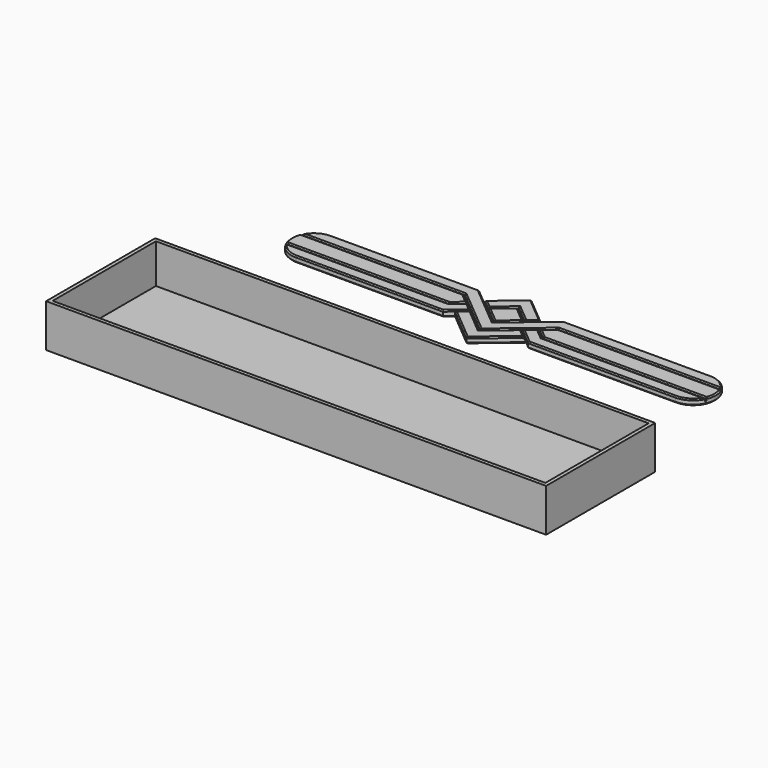
from build123d import *

# Parameters (mm, degrees)
F1_DEPTH  = 2
F3_DEPTH  = 2
F5_DEPTH  = 2
F7_DEPTH  = 2
F9_DEPTH  = 1
F12_DEPTH = 2
F13_SIZE  = 0.4
F14_W     = 165
F14_H     = 45
F15_DEPTH = 1.2
F16_W     = 165
F16_H     = 45
F16_W_2   = 162.6
F16_H_2   = 42.6
F17_DEPTH = 13


with BuildPart() as f1:
    # F0 (on Top) → F1 (new body)
    with BuildSketch(Plane.XY):
        Polygon((15.575261, 3), (12, 0), (15.575261, -3), (70, -3), (70, 0), (70, 3), align=None)
        Polygon((-15.575261, -3), (-12, 0), (-15.575261, 3), (-70, 3), (-70, 0), (-70, -3), align=None)
    extrude(amount=F1_DEPTH)


with BuildPart() as f3:
    # F2 (on Top) → F3 (new body)
    with BuildSketch(Plane.XY):
        Polygon((-15.429673, 3.4), (0, -9.547033), (15.429673, 3.4), (70, 3.4), (70, 7.4), (13.973792, 7.4), (0, -4.325404), (-13.973792, 7.4), (-70, 7.4), (-70, 3.4), align=None)
    extrude(amount=F3_DEPTH)


with BuildPart() as f5:
    # F4 (on Top) → F5 (new body)
    with BuildSketch(Plane.XY):
        Polygon((6.079716, 1.298247), (9.143894, 3.869397), (0, 11.542036), (-9.143894, 3.869397), (-6.079716, 1.298247), (0, 6.399735), align=None)
        Polygon((15.429673, -3.4), (11.688855, -0.261081), (8.624677, -2.832232), (14.068332, -7.4), (70, -7.4), (70, -3.4), align=None)
        Polygon((-70, -7.4), (-14.068332, -7.4), (-8.624677, -2.832232), (-11.688855, -0.261081), (-15.429673, -3.4), (-70, -3.4), align=None)
    extrude(amount=F5_DEPTH)


with BuildPart() as f7:
    # F6 (on Top) → F7 (new body)
    with BuildSketch(Plane.XY):
        Polygon((-11.42498, -5.704128), (0, -15.290825), (11.42498, -5.704128), (8.313533, -3.093313), (0, -10.069196), (-8.313533, -3.093313), align=None)
        Polygon((-5.768571, 1.037166), (0, -3.803241), (5.768571, 1.037166), (0, 5.877572), align=None)
    extrude(amount=F7_DEPTH)


with BuildPart() as f9:
    # F8 (on Top) → F9 (new body)
    with BuildSketch(Plane.XY):
        Polygon((9.455039, 3.608316), (0, 11.542036), (-9.455039, 3.608316), (-13.973792, 7.4), (-70, 7.4), (-70, -7.4), (-14.068332, -7.4), (-11.736125, -5.443046), (0, -15.290825), (11.736125, -5.443046), (14.068332, -7.4), (70, -7.4), (70, 7.4), (13.973792, 7.4), align=None)
    extrude(amount=F9_DEPTH)


with BuildPart() as f1_1:
    add(f1.part)

    # F10: union F3, F5, F7, F9
    add(f3.part)
    add(f5.part)
    add(f7.part)
    add(f9.part)

    # F11 (on Top) → F12 (cut, through all)
    with BuildSketch(Plane.XY):
        with BuildLine():
            ThreePointArc((62.6, 7.4), (70, 0), (62.6, -7.4))
            Line((62.6, -7.4), (112.117278, -7.4))
            Line((112.117278, -7.4), (112.117278, 7.4))
            Line((112.117278, 7.4), (62.6, 7.4))
        make_face()
        with BuildLine():
            Line((-112.117278, -7.4), (-62.6, -7.4))
            ThreePointArc((-62.6, -7.4), (-70, 0), (-62.6, 7.4))
            Line((-62.6, 7.4), (-112.117278, 7.4))
            Line((-112.117278, 7.4), (-112.117278, -7.4))
        make_face()
    extrude(amount=F12_DEPTH, mode=Mode.SUBTRACT)

    # F13
    f13_edges = [f1_1.edges().sort_by_distance(p)[0] for p in [
        (-42.301172, 3.4, 2),
        (-66.447077, 6.321392, 2),
        (-38.286896, 7.4, 2),
        (-6.986896, 1.537298, 2),
        (6.986896, 1.537298, 2),
        (38.286896, 7.4, 2),
        (66.447077, 6.321392, 2),
        (42.301172, 3.4, 2),
        (7.714836, -3.073516, 2),
        (-7.714836, -3.073516, 2),
        (-42.469937, -3, 2),
        (-13.78763, -1.5, 2),
        (-13.78763, 1.5, 2),
        (-42.469937, 3, 2),
        (-70, 0, 2),
        (-13.559264, -1.830541, 2),
        (-10.156766, -1.546657, 2),
        (-11.346504, -5.116116, 2),
        (-38.334166, -7.4, 2),
        (-66.447077, -6.321392, 2),
        (-42.301172, -3.4, 2),
        (3.039858, 3.848991, 2),
        (7.611805, 2.583822, 2),
        (4.571947, 7.705717, 2),
        (-4.571947, 7.705717, 2),
        (-7.611805, 2.583822, 2),
        (-3.039858, 3.848991, 2),
        (-2.884286, -1.383037, 2),
        (2.884286, -1.383037, 2),
        (2.884286, 3.457369, 2),
        (-2.884286, 3.457369, 2),
        (-5.71249, -10.497476, 2),
        (5.71249, -10.497476, 2),
        (9.869257, -4.398721, 2),
        (4.156766, -6.581254, 2),
        (-4.156766, -6.581254, 2),
        (-9.869257, -4.398721, 2),
        (42.301172, -3.4, 2),
        (66.447077, -6.321392, 2),
        (38.334166, -7.4, 2),
        (11.346504, -5.116116, 2),
        (10.156766, -1.546657, 2),
        (13.559264, -1.830541, 2),
        (42.469937, 3, 2),
        (13.78763, 1.5, 2),
        (13.78763, -1.5, 2),
        (42.469937, -3, 2),
        (70, 0, 2),
        (38.334166, -7.4, 0),
        (70, 0, 0),
        (38.286896, 7.4, 0),
        (11.714415, 5.504158, 0),
        (4.727519, 7.575176, 0),
        (-4.727519, 7.575176, 0),
        (-11.714415, 5.504158, 0),
        (-38.286896, 7.4, 0),
        (-70, 0, 0),
        (-38.334166, -7.4, 0),
        (-12.902228, -6.421523, 0),
        (-5.868063, -10.366936, 0),
        (5.868063, -10.366936, 0),
        (12.902228, -6.421523, 0),
    ]]
    chamfer(f13_edges, length=F13_SIZE)


with BuildPart() as f15:
    # F14 (on Top) → F15 (new body)
    with BuildSketch(Plane.XY):
        with Locations((0, -63.063599)):
            Rectangle(F14_W, F14_H)
    extrude(amount=F15_DEPTH)

    # F16 (on face) → F17 (join)
    with BuildSketch(Plane.XY.offset(1.2)):
        with Locations((0, -63.063599)):
            Rectangle(F16_W, F16_H)
        with Locations((0, -63.063599)):
            Rectangle(F16_W_2, F16_H_2, mode=Mode.SUBTRACT)
    extrude(amount=F17_DEPTH)


solid = Compound([f1_1.part, f15.part])
